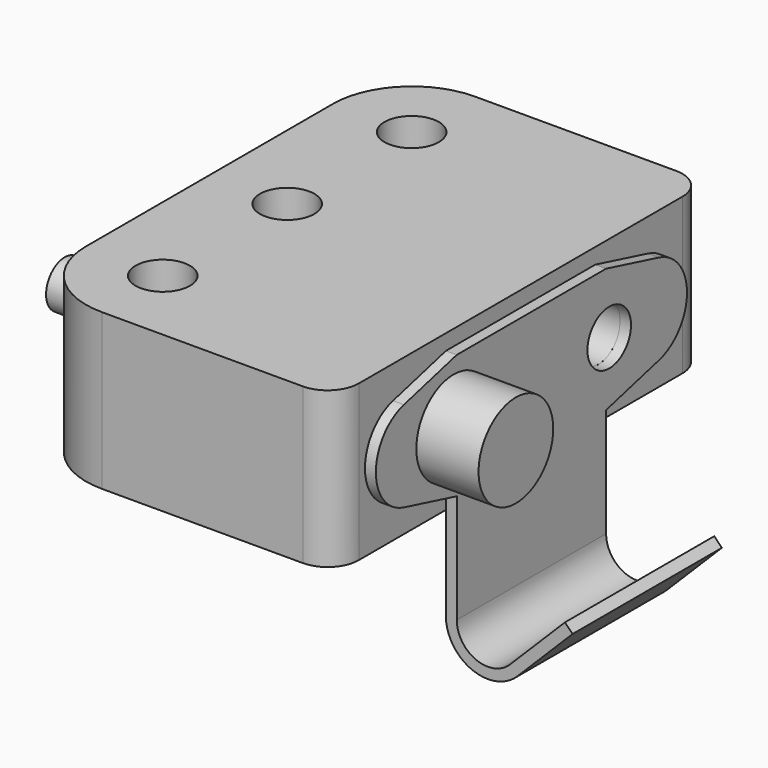
from build123d import *

# Parameters (mm, degrees)
F1_DEPTH  = 12.5
F3_DEPTH  = 50
F4_R      = 1.75
F5_DEPTH  = 0.701
F6_R      = 3
F6_R_2    = 1.75
F7_DEPTH  = 4
F8_R      = 1.5
F9_DEPTH  = 25
F10_W     = 30
F10_H     = 10
F10_R     = 1.75
F11_DEPTH = 20
F12_R     = 16.267229
F13_DEPTH = 15
F15_R     = 1.75
F16_DEPTH = 2.5
F17_R     = 1.75
F18_DEPTH = 18.701
F19_R     = 2
F20_R     = 5.08


with BuildPart() as f1:
    # F0 (on Front) → F1 (new body, symmetric)
    with BuildSketch(Plane.XZ):
        with BuildLine():
            Line((0.7, 0), (0.7, 15))
            Line((0.7, 15), (0, 15))
            Line((0, 15), (0, 0))
            ThreePointArc((0, 0), (1.666755, -2.494475), (4.609188, -1.909188))
            Line((4.609188, -1.909188), (8.144722, 1.626346))
            Line((8.144722, 1.626346), (7.649747, 2.12132))
            Line((7.649747, 2.12132), (4.114214, -1.414214))
            ThreePointArc((4.114214, -1.414214), (1.934633, -1.847759), (0.7, 0))
        make_face()
    extrude(amount=F1_DEPTH, both=True)

    # F2 (on Right) → F3 (cut, symmetric)
    with BuildSketch(Plane.YZ):
        with BuildLine():
            ThreePointArc((-10.248665, 8.094918), (-12.5, 11), (-10.248665, 13.905082))
            Line((-10.248665, 13.905082), (-6, 15))
            Line((-6, 15), (6, 15))
            Line((6, 15), (10.248665, 13.905082))
            ThreePointArc((10.248665, 13.905082), (12.5, 11), (10.248665, 8.094918))
            Line((10.248665, 8.094918), (6, 7))
            Line((6, 7), (6, -10))
            Line((6, -10), (17.5, -10))
            Line((17.5, -10), (17.5, 20))
            Line((17.5, 20), (-17.5, 20))
            Line((-17.5, 20), (-17.5, -10))
            Line((-17.5, -10), (-6, -10))
            Line((-6, -10), (-6, 7))
            Line((-6, 7), (-10.248665, 8.094918))
        make_face()
    extrude(amount=F3_DEPTH, both=True, mode=Mode.SUBTRACT)

    # F4 (on face) → F5 (cut, through all)
    with BuildSketch(Plane.YZ.offset(0.7)):
        with Locations((-6.25, 11)):
            Circle(F4_R)
        with Locations((6.25, 11)):
            Circle(F4_R)
    extrude(amount=-F5_DEPTH, mode=Mode.SUBTRACT)


with BuildPart() as f7:
    # F6 (on face) → F7 (new body)
    with BuildSketch(Plane.YZ.offset(0.7)):
        with Locations((-6.25, 11)):
            Circle(F6_R)
        with Locations((-6.25, 11)):
            Circle(F6_R_2, mode=Mode.SUBTRACT)
        with Locations((-6.25, 11)):
            Circle(F6_R_2)
    extrude(amount=F7_DEPTH)

    # F8 (on face) → F9 (join)
    with BuildSketch(Plane(origin=(0.7, 0, 0), x_dir=(0, -1, 0), z_dir=(-1, 0, 0))):
        with Locations((6.25, 11)):
            Circle(F8_R)
    extrude(amount=F9_DEPTH)


with BuildPart() as f11:
    # F10 (on face) → F11 (new body)
    with BuildSketch(Plane(origin=(0, 0, 0), x_dir=(0, -1, 0), z_dir=(-1, 0, 0))):
        with Locations((0, 11)):
            Rectangle(F10_W, F10_H)
        with Locations((-6.25, 11)):
            Circle(F10_R, mode=Mode.SUBTRACT)
        with Locations((6.25, 11)):
            Circle(F10_R, mode=Mode.SUBTRACT)
    extrude(amount=F11_DEPTH)

    # F15 (on face) → F16 (cut)
    with BuildSketch(Plane(origin=(-20, 0, 0), x_dir=(0, -1, 0), z_dir=(-1, 0, 0))):
        Polygon((-3.35, 12.674316), (-6.25, 14.348632), (-9.15, 12.674316), (-9.15, 9.325684), (-6.25, 7.651368), (-3.35, 9.325684), align=None)
        with Locations((-6.25, 11)):
            Circle(F15_R, mode=Mode.SUBTRACT)
        Polygon((6.25, 14.348632), (3.35, 12.674316), (3.35, 9.325684), (6.25, 7.651368), (9.15, 9.325684), (9.15, 12.674316), align=None)
        with Locations((6.25, 11)):
            Circle(F15_R, mode=Mode.SUBTRACT)
    extrude(amount=-F16_DEPTH, mode=Mode.SUBTRACT)

    # F17 (on face) → F18 (cut, through all)
    with BuildSketch(Plane.XY.offset(16)):
        with Locations((-15, 10)):
            Circle(F17_R)
        with Locations((-15, 0)):
            Circle(F17_R)
        with Locations((-15, -10)):
            Circle(F17_R)
    extrude(amount=-F18_DEPTH, mode=Mode.SUBTRACT)

    # F19
    f19_edges = [f11.edges().sort_by_distance(p)[0] for p in [
        (0, 15, 11),
        (0, -15, 11),
    ]]
    fillet(f19_edges, radius=F19_R)

    # F20
    f20_edges = [f11.edges().sort_by_distance(p)[0] for p in [
        (-20, -15, 11),
        (-20, 15, 11),
    ]]
    fillet(f20_edges, radius=F20_R)


with BuildPart() as f13:
    # F12 (on Top) → F13 (new body)
    with BuildSketch(Plane.XY):
        with Locations((-53.400151, -32.228447)):
            Circle(F12_R)
    extrude(amount=F13_DEPTH)


solid = Compound([f1.part, f7.part, f11.part])
